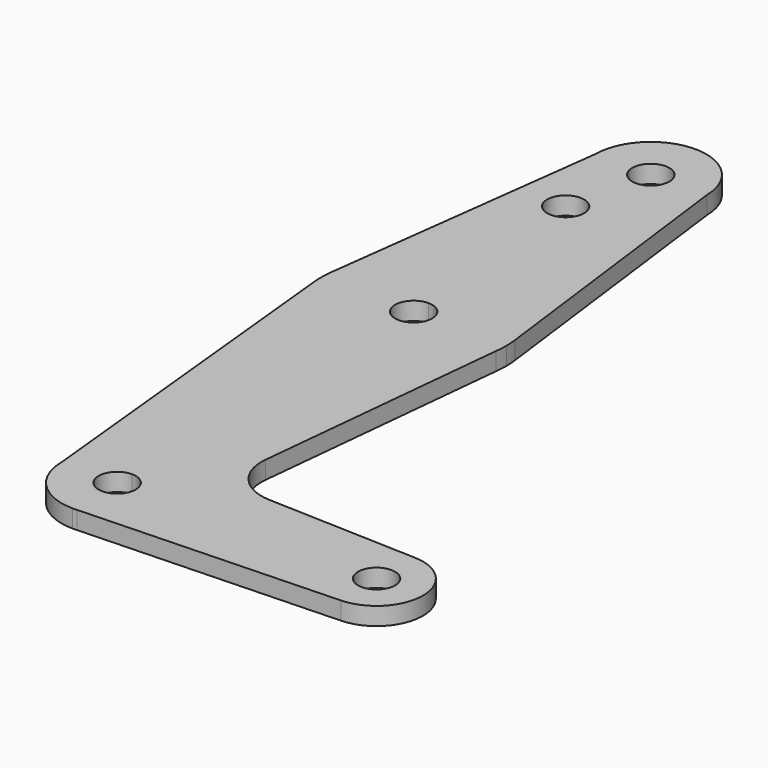
from build123d import *

# Parameters (mm, degrees)
F0_R     = 3.175
F1_DEPTH = 3.048
F2_DEPTH = 3.048


with BuildPart() as f1:
    # F0 (on Top) → F1 (new body)
    with BuildSketch(Plane.XY):
        with BuildLine():
            ThreePointArc((0, 9.525), (-6.7351920908, 6.7351920908), (-9.525, 0))
            ThreePointArc((-9.525, 0), (-6.7351920908, -6.7351920908), (0, -9.525))
            Line((0, -9.525), (0.6773435479, -9.500885786))
            ThreePointArc((0.6773435479, -9.500885786), (6.9705567315, -6.4912990883), (9.525, 0))
            Line((9.525, 0), (3.175, 0))
            ThreePointArc((3.175, 0), (-2.2450640303, -2.2450640303), (0, 3.175))
            Line((0, 3.175), (0, 9.525))
        make_face()
        with BuildLine():
            Line((-15.7942028036, 61.9003804205), (-9.525, 0))
            ThreePointArc((-9.525, 0), (-6.7351920908, 6.7351920908), (0, 9.525))
            Line((0, 9.525), (0, 47.625))
            ThreePointArc((0, 47.625), (-10.644756084, 51.722700101), (-15.7942028036, 61.9003804205))
        make_face()
        with BuildLine():
            Line((0.6773435479, -9.500885786), (0, -9.525))
            ThreePointArc((0, -9.525), (0.3388863295, -9.5189695375), (0.6773435479, -9.500885786))
        make_face()
        with BuildLine():
            Line((0, 47.625), (0, 9.525))
            ThreePointArc((0, 9.525), (6.7351920908, 6.7351920908), (9.525, 0))
            Line((9.525, 0), (36.5125, 0))
            ThreePointArc((36.5125, 0), (38.8373399243, 5.6126600757), (44.45, 7.9375))
            Line((44.45, 7.9375), (18.9653945928, 8.8476644788))
            ThreePointArc((18.9653945928, 8.8476644788), (13.2591281122, 11.5654359388), (11.3387227401, 17.5870471902))
            Line((11.3387227401, 17.5870471902), (15.7452512776, 61.4744908778))
            ThreePointArc((15.7452512776, 61.4744908778), (10.4847667519, 51.5800465119), (0, 47.625))
        make_face()
        with BuildLine():
            ThreePointArc((-15.7479828437, 65.5041610105), (-15.8736945128, 63.7035866241), (-15.7942028036, 61.9003804205))
            ThreePointArc((-15.7942028036, 61.9003804205), (-10.644756084, 51.722700101), (0, 47.625))
            Line((0, 47.625), (0, 60.325))
            ThreePointArc((0, 60.325), (-3.175, 63.5), (0, 66.675))
            Line((0, 66.675), (0, 79.375))
            ThreePointArc((0, 79.375), (-10.4928444418, 75.4128435111), (-15.7479828437, 65.5041610105))
        make_face()
        with BuildLine():
            ThreePointArc((9.525, 0), (6.9705567315, -6.4912990883), (0.6773435479, -9.500885786))
            Line((0.6773435479, -9.500885786), (44.7324052746, -7.9324746146))
            ThreePointArc((44.7324052746, -7.9324746146), (38.9380895153, -5.7116327839), (36.5125, 0))
            Line((36.5125, 0), (9.525, 0))
        make_face()
        with BuildLine():
            Line((0, 60.325), (0, 47.625))
            ThreePointArc((0, 47.625), (10.4847667519, 51.5800465119), (15.7452512776, 61.4744908778))
            ThreePointArc((15.7452512776, 61.4744908778), (15.8425296123, 62.4851697266), (15.875, 63.5))
            ThreePointArc((15.875, 63.5), (15.8431977456, 64.5043456547), (15.7479184007, 65.5046673149))
            ThreePointArc((15.7479184007, 65.5046673149), (10.4926529385, 75.4130121847), (0, 79.375))
            Line((0, 79.375), (0, 66.675))
            ThreePointArc((0, 66.675), (2.2450640303, 65.7450640303), (3.175, 63.5))
            ThreePointArc((3.175, 63.5), (2.2450640303, 61.2549359697), (0, 60.325))
        make_face()
        with BuildLine():
            Line((-9.5244006507, 114.4068515071), (-15.7479828437, 65.5041610105))
            ThreePointArc((-15.7479828437, 65.5041610105), (-10.4928444418, 75.4128435111), (0, 79.375))
            Line((0, 79.375), (0, 100.0252))
            Line((0, 100.0252), (0, 104.775))
            ThreePointArc((0, 104.775), (-6.7728644459, 107.6026921679), (-9.5244006507, 114.4068515071))
        make_face()
        with Locations((-3.175, 100.0252)):
            Circle(F0_R, mode=Mode.SUBTRACT)
        with BuildLine():
            ThreePointArc((36.5125, 0), (38.9380895153, -5.7116327839), (44.7324052746, -7.9324746146))
            ThreePointArc((44.7324052746, -7.9324746146), (50.1616327839, -5.5119104847), (52.3875, 0))
            ThreePointArc((52.3875, 0), (50.0626600757, 5.6126600757), (44.45, 7.9375))
            ThreePointArc((44.45, 7.9375), (38.8373399243, 5.6126600757), (36.5125, 0))
        make_face()
        with BuildLine():
            ThreePointArc((47.625, 0), (44.45, -3.175), (41.275, 0))
            ThreePointArc((41.275, 0), (44.45, 3.175), (47.625, 0))
        make_face(mode=Mode.SUBTRACT)
        with BuildLine():
            Line((0, 100.0252), (0, 79.375))
            ThreePointArc((0, 79.375), (10.4926529385, 75.4130121847), (15.7479184007, 65.5046673149))
            Line((15.7479184007, 65.5046673149), (9.5245442913, 114.3931721171))
            ThreePointArc((9.5245442913, 114.3931721171), (9.5248860721, 114.3465866158), (9.525, 114.3))
            ThreePointArc((9.525, 114.3), (6.7351920908, 107.5648079092), (0, 104.775))
            Line((0, 104.775), (0, 100.0252))
        make_face()
        with BuildLine():
            ThreePointArc((9.5245442913, 114.3931721171), (0.0068400721, 123.824997544), (-9.5244006507, 114.4068515071))
            ThreePointArc((-9.5244006507, 114.4068515071), (-6.7728644459, 107.6026921679), (0, 104.775))
            ThreePointArc((0, 104.775), (6.7351920908, 107.5648079092), (9.525, 114.3))
            ThreePointArc((9.525, 114.3), (9.5248860721, 114.3465866158), (9.5245442913, 114.3931721171))
        make_face()
        with BuildLine():
            ThreePointArc((3.175, 114.3), (2.2450640303, 112.0549359697), (0, 111.125))
            ThreePointArc((0, 111.125), (-2.2450640303, 116.5450640303), (3.175, 114.3))
        make_face(mode=Mode.SUBTRACT)
    extrude(amount=F1_DEPTH)

    # F0 (on Top) → F2 (join)
    with BuildSketch(Plane.XY):
        with BuildLine():
            ThreePointArc((9.525, 0), (6.7351920908, 6.7351920908), (0, 9.525))
            Line((0, 9.525), (0, 3.175))
            ThreePointArc((0, 3.175), (2.2450640303, 2.2450640303), (3.175, 0))
            Line((3.175, 0), (9.525, 0))
        make_face()
    extrude(amount=F2_DEPTH)


solid = f1.part
